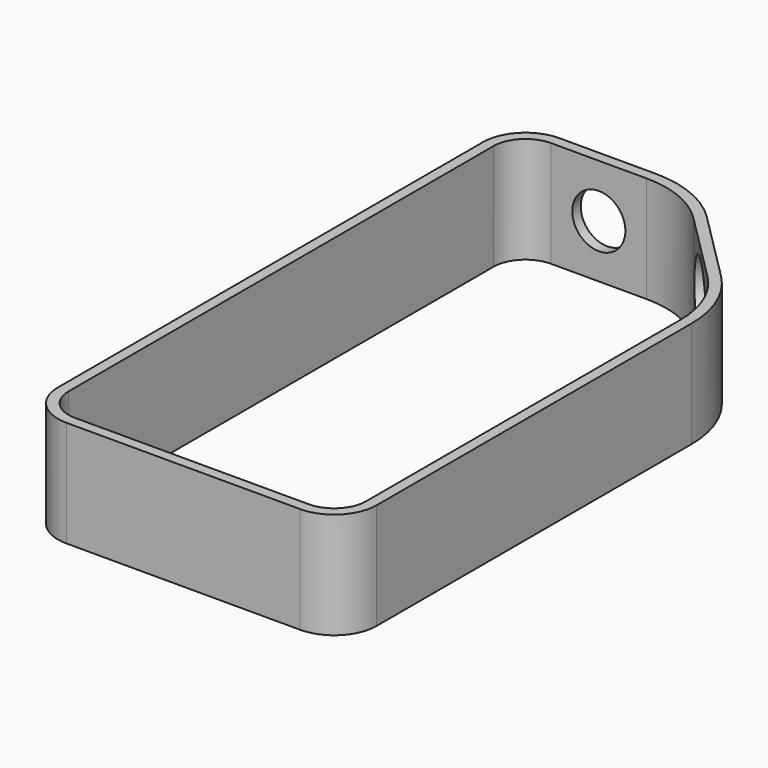
from build123d import *

# Parameters (mm, degrees)
PAD_DEPTH       = 20
SKETCH001_R     = 8
POCKET_DEPTH    = 5
SKETCH002_R     = 5
POCKET001_DEPTH = 5


with BuildPart() as part:
    # Sketch → Pad (new body)
    with BuildSketch(Plane.XY):
        with BuildLine():
            Line((60, 8), (60, 82.000001))
            ThreePointArc((60, 82.000001), (58.434586, 89.869877), (53.976662, 96.541638))
            Line((40.541631, 109.976664), (53.976662, 96.541638))
            ThreePointArc((40.541631, 109.976664), (33.869872, 114.434584), (25.999999, 115.999997))
            Line((7.999999, 115.999997), (25.999999, 115.999997))
            ThreePointArc((7.999999, 115.999997), (2.343146, 113.656851), (0, 107.999998))
            Line((0, 107.999998), (0, 8))
            ThreePointArc((0, 8), (2.343146, 2.343146), (8, 0))
            Line((8, 0), (52, 0))
            ThreePointArc((52, 0), (57.656854, 2.343146), (60, 8))
        make_face()
        with BuildLine():
            ThreePointArc((8.00002, 113.999997), (3.757366, 112.242645), (2, 107.999998))
            Line((2, 107.999998), (2, 8))
            ThreePointArc((2, 8), (3.757359, 3.757359), (8, 2))
            Line((8, 2), (52, 2))
            ThreePointArc((52, 2), (56.242641, 3.757359), (58, 8))
            Line((58, 82), (58, 8))
            ThreePointArc((58, 82), (56.586824, 89.104516), (52.562438, 95.127434))
            Line((39.127428, 108.56244), (52.562438, 95.127434))
            ThreePointArc((39.127428, 108.56244), (33.104513, 112.586822), (25.999999, 113.999997))
            Line((8.00002, 113.999997), (25.999999, 113.999997))
        make_face(mode=Mode.SUBTRACT)
    extrude(amount=PAD_DEPTH)

    # Sketch001 → Pocket (cut)
    with BuildSketch(Plane(origin=(75.259141, 75.259166, 0), x_dir=(-0.707107, 0.707107, 0), z_dir=(0.707107, 0.707107, 0))):
        with Locations((39.5, 10)):
            Circle(SKETCH001_R)
    extrude(amount=-POCKET_DEPTH, mode=Mode.SUBTRACT)

    # Sketch002 → Pocket001 (cut)
    with BuildSketch(Plane(origin=(0, 115.999997, 0), x_dir=(-1, 0, 0), z_dir=(0, 1, 0))):
        with Locations((-17, 10)):
            Circle(SKETCH002_R)
    extrude(amount=-POCKET001_DEPTH, mode=Mode.SUBTRACT)


solid = part.part
